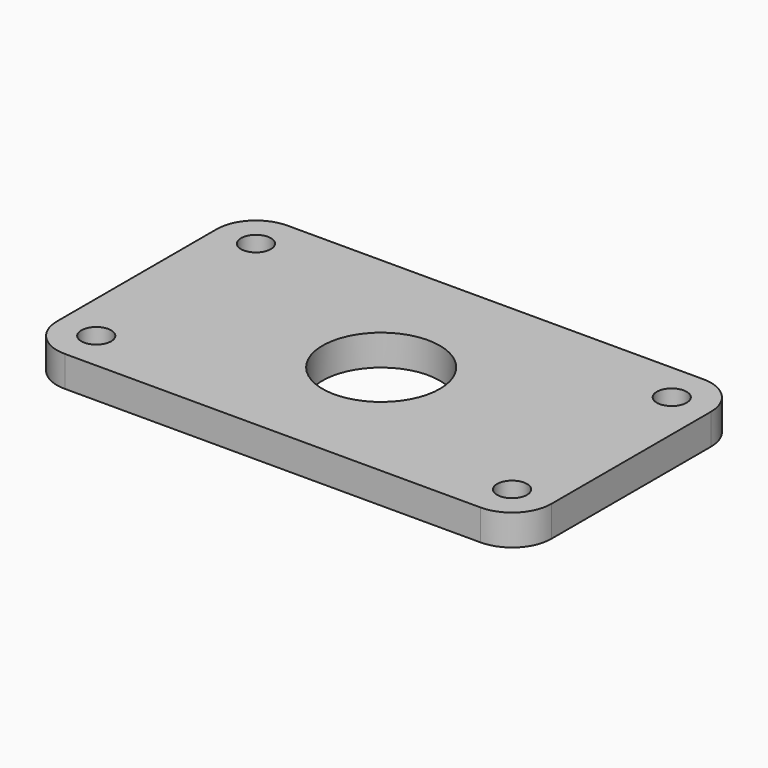
from build123d import *

# Parameters (mm, degrees)
F0_R     = 2.4239795943
F1_DEPTH = 5
F0_R_2   = 14.985
F0_R_3   = 13.105
F0_R_4   = 9.525
F2_DEPTH = 5


with BuildPart() as f1:
    # F0 (on Top) → F1 (new body)
    with BuildSketch(Plane.XY):
        with BuildLine():
            Line((17.7404159275, 48.6430391774), (-49.8098228694, 48.6430391774))
            ThreePointArc((-49.8098228694, 48.6430391774), (-54.3166463867, 46.7762517533), (-56.1834338108, 42.2694282359))
            Line((-56.1834338108, 42.2694282359), (-56.1834338108, 9.8493284865))
            ThreePointArc((-56.1834338108, 9.8493284865), (-54.3166463867, 5.3425049691), (-49.8098228694, 3.475717545))
            Line((-49.8098228694, 3.475717545), (17.7404159275, 3.475717545))
            ThreePointArc((17.7404159275, 3.475717545), (22.2472394449, 5.3425049691), (24.114026869, 9.8493284865))
            Line((24.114026869, 9.8493284865), (24.114026869, 42.2694282359))
            ThreePointArc((24.114026869, 42.2694282359), (22.2472394449, 46.7762517533), (17.7404159275, 48.6430391774))
        make_face()
        with Locations((-49.8098228694, 9.8493301855)):
            Circle(F0_R, mode=Mode.SUBTRACT)
        with Locations((17.7404159273, 9.8493284865)):
            Circle(F0_R, mode=Mode.SUBTRACT)
        with Locations((-49.8098201772, 42.2694282359)):
            Circle(F0_R, mode=Mode.SUBTRACT)
        with BuildLine():
            ThreePointArc((18.6863742083, 35.5996759781), (19.6563634016, 35.8111329866), (20.5847411662, 36.1628542221))
            Line((20.5847411662, 36.1628542221), (20.5847411662, 33.96608295))
            Line((20.5847411662, 33.96608295), (20.5847411662, 18.1526737723))
            Line((20.5847411662, 18.1526737723), (20.5847411662, 16.1657168497))
            Line((20.5847411662, 16.1657168497), (20.5847411662, 15.9559025003))
            ThreePointArc((20.5847411662, 15.9559025003), (14.119667658, 15.5300515231), (11.0039159275, 9.8493283582))
            ThreePointArc((11.0039159275, 9.8493283582), (11.0576244735, 9.0003699293), (11.2178936678, 8.1649485943))
            Line((11.2178936678, 8.1649485943), (9.1265553889, 8.1649485943))
            Line((9.1265553889, 8.1649485943), (-41.1959623307, 8.1649485943))
            Line((-41.1959623307, 8.1649485943), (-43.2873006096, 8.1649485943))
            ThreePointArc((-43.2873006096, 8.1649485943), (-43.1270314153, 9.0003699293), (-43.0733228694, 9.8493283582))
            ThreePointArc((-43.0733228694, 9.8493283582), (-45.1006810771, 14.6664246896), (-49.9624837875, 16.5840984821))
            ThreePointArc((-49.9624837875, 16.5840984821), (-50.7424459789, 16.5209584511), (-51.5098240912, 16.3677967188))
            Line((-51.5098240912, 16.3677967188), (-51.5098240912, 18.4601196723))
            Line((-51.5098240912, 18.4601196723), (-51.5098240912, 33.6587008899))
            Line((-51.5098240912, 33.6587008899), (-51.5098240912, 35.7507176035))
            ThreePointArc((-51.5098240912, 35.7507176035), (-50.7424455275, 35.5975613727), (-49.9624837875, 35.5344236251))
            ThreePointArc((-49.9624837875, 35.5344236251), (-45.2055520994, 37.3516763979), (-43.0793609271, 41.9787832503))
            ThreePointArc((-43.0793609271, 41.9787832503), (-43.1108817874, 42.9820156644), (-43.2911122152, 43.9694293742))
            Line((-43.2911122152, 43.9694293742), (-41.1990955068, 43.9694293742))
            Line((-41.1990955068, 43.9694293742), (9.1296247252, 43.9694293742))
            Line((9.1296247252, 43.9694293742), (11.2219476734, 43.9694293742))
            ThreePointArc((11.2219476734, 43.9694293742), (11.041710784, 42.982016231), (11.0101887588, 41.9787832503))
            ThreePointArc((11.0101887588, 41.9787832503), (13.4348736807, 37.0884304352), (18.6863742083, 35.5996759781))
        make_face(mode=Mode.SUBTRACT)
        with Locations((17.7404159273, 42.2694282359)):
            Circle(F0_R, mode=Mode.SUBTRACT)
    extrude(amount=F1_DEPTH)


with BuildPart() as f2:
    # F0 (on Top) → F2 (new body)
    with BuildSketch(Plane.XY):
        with BuildLine():
            Line((17.7404159275, 48.6430391774), (-49.8098228694, 48.6430391774))
            ThreePointArc((-49.8098228694, 48.6430391774), (-54.3166463867, 46.7762517533), (-56.1834338108, 42.2694282359))
            Line((-56.1834338108, 42.2694282359), (-56.1834338108, 9.8493284865))
            ThreePointArc((-56.1834338108, 9.8493284865), (-54.3166463867, 5.3425049691), (-49.8098228694, 3.475717545))
            Line((-49.8098228694, 3.475717545), (17.7404159275, 3.475717545))
            ThreePointArc((17.7404159275, 3.475717545), (22.2472394449, 5.3425049691), (24.114026869, 9.8493284865))
            Line((24.114026869, 9.8493284865), (24.114026869, 42.2694282359))
            ThreePointArc((24.114026869, 42.2694282359), (22.2472394449, 46.7762517533), (17.7404159275, 48.6430391774))
        make_face()
        with Locations((-49.8098228694, 9.8493301855)):
            Circle(F0_R, mode=Mode.SUBTRACT)
        with Locations((17.7404159273, 9.8493284865)):
            Circle(F0_R, mode=Mode.SUBTRACT)
        with Locations((-49.8098201772, 42.2694282359)):
            Circle(F0_R, mode=Mode.SUBTRACT)
        with BuildLine():
            ThreePointArc((18.6863742083, 35.5996759781), (19.6563634016, 35.8111329866), (20.5847411662, 36.1628542221))
            Line((20.5847411662, 36.1628542221), (20.5847411662, 33.96608295))
            Line((20.5847411662, 33.96608295), (20.5847411662, 18.1526737723))
            Line((20.5847411662, 18.1526737723), (20.5847411662, 16.1657168497))
            Line((20.5847411662, 16.1657168497), (20.5847411662, 15.9559025003))
            ThreePointArc((20.5847411662, 15.9559025003), (14.119667658, 15.5300515231), (11.0039159275, 9.8493283582))
            ThreePointArc((11.0039159275, 9.8493283582), (11.0576244735, 9.0003699293), (11.2178936678, 8.1649485943))
            Line((11.2178936678, 8.1649485943), (9.1265553889, 8.1649485943))
            Line((9.1265553889, 8.1649485943), (-41.1959623307, 8.1649485943))
            Line((-41.1959623307, 8.1649485943), (-43.2873006096, 8.1649485943))
            ThreePointArc((-43.2873006096, 8.1649485943), (-43.1270314153, 9.0003699293), (-43.0733228694, 9.8493283582))
            ThreePointArc((-43.0733228694, 9.8493283582), (-45.1006810771, 14.6664246896), (-49.9624837875, 16.5840984821))
            ThreePointArc((-49.9624837875, 16.5840984821), (-50.7424459789, 16.5209584511), (-51.5098240912, 16.3677967188))
            Line((-51.5098240912, 16.3677967188), (-51.5098240912, 18.4601196723))
            Line((-51.5098240912, 18.4601196723), (-51.5098240912, 33.6587008899))
            Line((-51.5098240912, 33.6587008899), (-51.5098240912, 35.7507176035))
            ThreePointArc((-51.5098240912, 35.7507176035), (-50.7424455275, 35.5975613727), (-49.9624837875, 35.5344236251))
            ThreePointArc((-49.9624837875, 35.5344236251), (-45.2055520994, 37.3516763979), (-43.0793609271, 41.9787832503))
            ThreePointArc((-43.0793609271, 41.9787832503), (-43.1108817874, 42.9820156644), (-43.2911122152, 43.9694293742))
            Line((-43.2911122152, 43.9694293742), (-41.1990955068, 43.9694293742))
            Line((-41.1990955068, 43.9694293742), (9.1296247252, 43.9694293742))
            Line((9.1296247252, 43.9694293742), (11.2219476734, 43.9694293742))
            ThreePointArc((11.2219476734, 43.9694293742), (11.041710784, 42.982016231), (11.0101887588, 41.9787832503))
            ThreePointArc((11.0101887588, 41.9787832503), (13.4348736807, 37.0884304352), (18.6863742083, 35.5996759781))
        make_face(mode=Mode.SUBTRACT)
        with Locations((17.7404159273, 42.2694282359)):
            Circle(F0_R, mode=Mode.SUBTRACT)
        with BuildLine():
            Line((18.7836135842, 18.5641129158), (18.6882003436, 33.5437515458))
            ThreePointArc((18.6882003436, 33.5437515458), (11.9877855185, 35.6404786677), (8.9682295129, 41.9787832503))
            Line((8.9682295129, 41.9787832503), (8.1356065594, 41.9787832503))
            Line((8.1356065594, 41.9787832503), (-41.03769912, 41.9787832503))
            ThreePointArc((-41.03769912, 41.9787832503), (-43.7623075869, 35.9084386517), (-49.9624837875, 33.4938186146))
            Line((-49.9624837875, 33.4938186146), (-49.9624837875, 18.6250007481))
            ThreePointArc((-49.9624837875, 18.6250007481), (-43.6577571493, 16.1093457689), (-41.0328228694, 9.8493283582))
            Line((-41.0328228694, 9.8493283582), (8.1356065594, 9.8493283582))
            Line((8.1356065594, 9.8493283582), (8.9634159275, 9.8493283582))
            ThreePointArc((8.9634159275, 9.8493283582), (11.9146291014, 16.4140780519), (18.7836135842, 18.5641129158))
        make_face()
        with Locations((-16.184706682, 25.6746851806)):
            Circle(F0_R_2, mode=Mode.SUBTRACT)
        with Locations((-16.184706682, 25.6746851806)):
            Circle(F0_R_2)
        with Locations((-16.184706682, 25.6746851806)):
            Circle(F0_R_3, mode=Mode.SUBTRACT)
        with Locations((-16.184706682, 25.6746851806)):
            Circle(F0_R_3)
        with Locations((-16.184706682, 25.6746851806)):
            Circle(F0_R_4, mode=Mode.SUBTRACT)
        with BuildLine():
            Line((8.1356065594, 41.9787832503), (8.9682295129, 41.9787832503))
            ThreePointArc((8.9682295129, 41.9787832503), (8.9921220536, 42.978711885), (9.1296247252, 43.9694293742))
            Line((9.1296247252, 43.9694293742), (-41.1990955068, 43.9694293742))
            ThreePointArc((-41.1990955068, 43.9694293742), (-41.0615918372, 42.9787119518), (-41.03769912, 41.9787832503))
            Line((-41.03769912, 41.9787832503), (8.1356065594, 41.9787832503))
        make_face()
        with BuildLine():
            ThreePointArc((9.1265553889, 8.1649485943), (9.0042960013, 9.003197507), (8.9634159275, 9.8493283582))
            Line((8.9634159275, 9.8493283582), (8.1356065594, 9.8493283582))
            Line((8.1356065594, 9.8493283582), (-41.0328228694, 9.8493283582))
            ThreePointArc((-41.0328228694, 9.8493283582), (-41.0737029431, 9.003197507), (-41.1959623307, 8.1649485943))
            Line((-41.1959623307, 8.1649485943), (9.1265553889, 8.1649485943))
        make_face()
        with BuildLine():
            Line((20.5847411662, 16.1657168497), (20.5847411662, 18.1526737723))
            ThreePointArc((20.5847411662, 18.1526737723), (19.6950333089, 18.4059165852), (18.7836135842, 18.5641129158))
            ThreePointArc((18.7836135842, 18.5641129158), (11.9146291014, 16.4140780519), (8.9634159275, 9.8493283582))
            Line((8.9634159275, 9.8493283582), (11.0039159275, 9.8493283582))
            ThreePointArc((11.0039159275, 9.8493283582), (14.119667658, 15.5300515231), (20.5847411662, 15.9559025003))
            Line((20.5847411662, 15.9559025003), (20.5847411662, 16.1657168497))
        make_face()
        with BuildLine():
            Line((20.5847411662, 18.1526737723), (20.5847411662, 33.96608295))
            ThreePointArc((20.5847411662, 33.96608295), (19.6481933942, 33.7022750251), (18.6882003436, 33.5437515458))
            Line((18.6882003436, 33.5437515458), (18.7836135842, 18.5641129158))
            ThreePointArc((18.7836135842, 18.5641129158), (19.6950333089, 18.4059165852), (20.5847411662, 18.1526737723))
        make_face()
        with BuildLine():
            Line((18.6863742083, 33.8304501925), (18.6863742083, 35.5996759781))
            ThreePointArc((18.6863742083, 35.5996759781), (13.4348736807, 37.0884304352), (11.0101887588, 41.9787832503))
            Line((11.0101887588, 41.9787832503), (8.9682295129, 41.9787832503))
            ThreePointArc((8.9682295129, 41.9787832503), (11.9877855185, 35.6404786677), (18.6882003436, 33.5437515458))
            Line((18.6882003436, 33.5437515458), (18.6863742083, 33.8304501925))
        make_face()
        with BuildLine():
            Line((-41.5897783577, 9.8493283582), (-41.0328228694, 9.8493283582))
            ThreePointArc((-41.0328228694, 9.8493283582), (-43.6577571493, 16.1093457689), (-49.9624837875, 18.6250007481))
            Line((-49.9624837875, 18.6250007481), (-49.9624837875, 18.4927576189))
            Line((-49.9624837875, 18.4927576189), (-49.9624837875, 16.5840984821))
            ThreePointArc((-49.9624837875, 16.5840984821), (-45.1006810771, 14.6664246896), (-43.0733228694, 9.8493283582))
            Line((-43.0733228694, 9.8493283582), (-41.5897783577, 9.8493283582))
        make_face()
        with BuildLine():
            ThreePointArc((-49.9624837875, 33.4938186146), (-43.7623075869, 35.9084386517), (-41.03769912, 41.9787832503))
            Line((-41.03769912, 41.9787832503), (-41.5897783577, 41.9787832503))
            Line((-41.5897783577, 41.9787832503), (-43.0793609271, 41.9787832503))
            ThreePointArc((-43.0793609271, 41.9787832503), (-45.2055520994, 37.3516763979), (-49.9624837875, 35.5344236251))
            Line((-49.9624837875, 35.5344236251), (-49.9624837875, 33.8304501925))
            Line((-49.9624837875, 33.8304501925), (-49.9624837875, 33.4938186146))
        make_face()
        with BuildLine():
            Line((-49.9624837875, 18.6250007481), (-49.9624837875, 33.4938186146))
            ThreePointArc((-49.9624837875, 33.4938186146), (-50.7398152308, 33.5419003047), (-51.5098240912, 33.6587008899))
            Line((-51.5098240912, 33.6587008899), (-51.5098240912, 18.4601196723))
            ThreePointArc((-51.5098240912, 18.4601196723), (-50.7398151777, 18.5769194087), (-49.9624837875, 18.6250007481))
        make_face()
        with BuildLine():
            Line((8.9682295129, 41.9787832503), (11.0101887588, 41.9787832503))
            ThreePointArc((11.0101887588, 41.9787832503), (11.041710784, 42.982016231), (11.2219476734, 43.9694293742))
            Line((11.2219476734, 43.9694293742), (9.1296247252, 43.9694293742))
            ThreePointArc((9.1296247252, 43.9694293742), (8.9921220536, 42.978711885), (8.9682295129, 41.9787832503))
        make_face()
        with BuildLine():
            ThreePointArc((-41.03769912, 41.9787832503), (-41.0615918372, 42.9787119518), (-41.1990955068, 43.9694293742))
            Line((-41.1990955068, 43.9694293742), (-43.2911122152, 43.9694293742))
            ThreePointArc((-43.2911122152, 43.9694293742), (-43.1108817874, 42.9820156644), (-43.0793609271, 41.9787832503))
            Line((-43.0793609271, 41.9787832503), (-41.5897783577, 41.9787832503))
            Line((-41.5897783577, 41.9787832503), (-41.03769912, 41.9787832503))
        make_face()
        with BuildLine():
            Line((20.5847411662, 33.96608295), (20.5847411662, 36.1628542221))
            ThreePointArc((20.5847411662, 36.1628542221), (19.6563634016, 35.8111329866), (18.6863742083, 35.5996759781))
            Line((18.6863742083, 35.5996759781), (18.6863742083, 33.8304501925))
            Line((18.6863742083, 33.8304501925), (18.6882003436, 33.5437515458))
            ThreePointArc((18.6882003436, 33.5437515458), (19.6481933942, 33.7022750251), (20.5847411662, 33.96608295))
        make_face()
        with BuildLine():
            Line((-43.2873006096, 8.1649485943), (-41.1959623307, 8.1649485943))
            ThreePointArc((-41.1959623307, 8.1649485943), (-41.0737029431, 9.003197507), (-41.0328228694, 9.8493283582))
            Line((-41.0328228694, 9.8493283582), (-41.5897783577, 9.8493283582))
            Line((-41.5897783577, 9.8493283582), (-43.0733228694, 9.8493283582))
            ThreePointArc((-43.0733228694, 9.8493283582), (-43.1270314153, 9.0003699293), (-43.2873006096, 8.1649485943))
        make_face()
        with BuildLine():
            Line((11.0039159275, 9.8493283582), (8.9634159275, 9.8493283582))
            ThreePointArc((8.9634159275, 9.8493283582), (9.0042960013, 9.003197507), (9.1265553889, 8.1649485943))
            Line((9.1265553889, 8.1649485943), (11.2178936678, 8.1649485943))
            ThreePointArc((11.2178936678, 8.1649485943), (11.0576244735, 9.0003699293), (11.0039159275, 9.8493283582))
        make_face()
        with BuildLine():
            Line((-49.9624837875, 18.4927576189), (-49.9624837875, 18.6250007481))
            ThreePointArc((-49.9624837875, 18.6250007481), (-50.7398151777, 18.5769194087), (-51.5098240912, 18.4601196723))
            Line((-51.5098240912, 18.4601196723), (-51.5098240912, 16.3677967188))
            ThreePointArc((-51.5098240912, 16.3677967188), (-50.7424459789, 16.5209584511), (-49.9624837875, 16.5840984821))
            Line((-49.9624837875, 16.5840984821), (-49.9624837875, 18.4927576189))
        make_face()
        with BuildLine():
            ThreePointArc((-51.5098240912, 33.6587008899), (-50.7398152308, 33.5419003047), (-49.9624837875, 33.4938186146))
            Line((-49.9624837875, 33.4938186146), (-49.9624837875, 33.8304501925))
            Line((-49.9624837875, 33.8304501925), (-49.9624837875, 35.5344236251))
            ThreePointArc((-49.9624837875, 35.5344236251), (-50.7424455275, 35.5975613727), (-51.5098240912, 35.7507176035))
            Line((-51.5098240912, 35.7507176035), (-51.5098240912, 33.6587008899))
        make_face()
    extrude(amount=F2_DEPTH)


solid = Compound([f1.part, f2.part])
